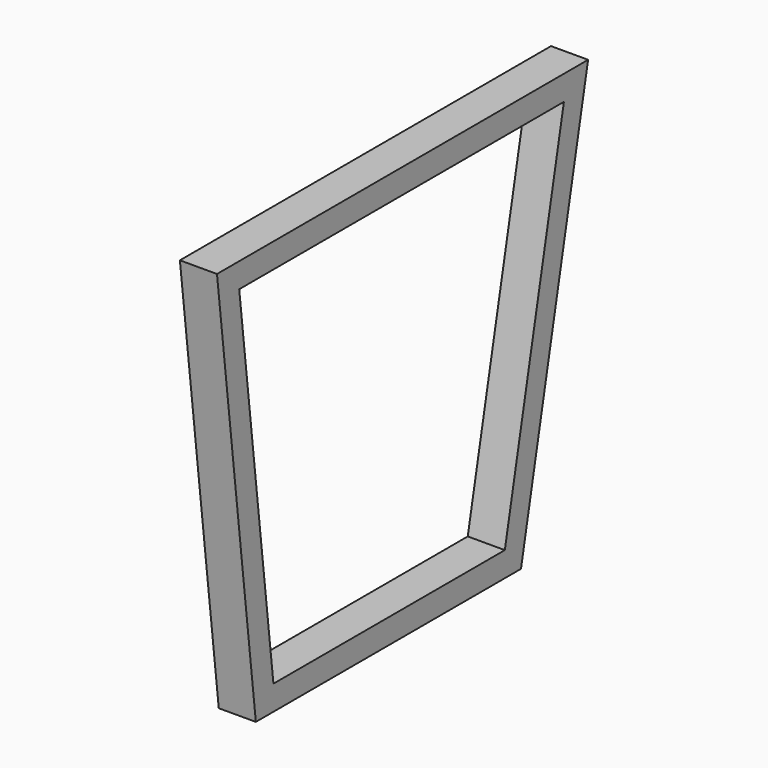
from build123d import *

# Parameters (mm, degrees)
F1_DEPTH = 30


with BuildPart() as f1:
    # F0 (on Right) → F1 (new body)
    with BuildSketch(Plane.YZ):
        Polygon((399.73456, 0), (467.591669, 334.999998), (92.28704, 334.999998), (131.5781, 0), align=None)
        Polygon((114.769867, 314.999998), (443.134323, 314.999998), (383.379555, 20), (149.369457, 20), align=None, mode=Mode.SUBTRACT)
    extrude(amount=-F1_DEPTH)


solid = f1.part
